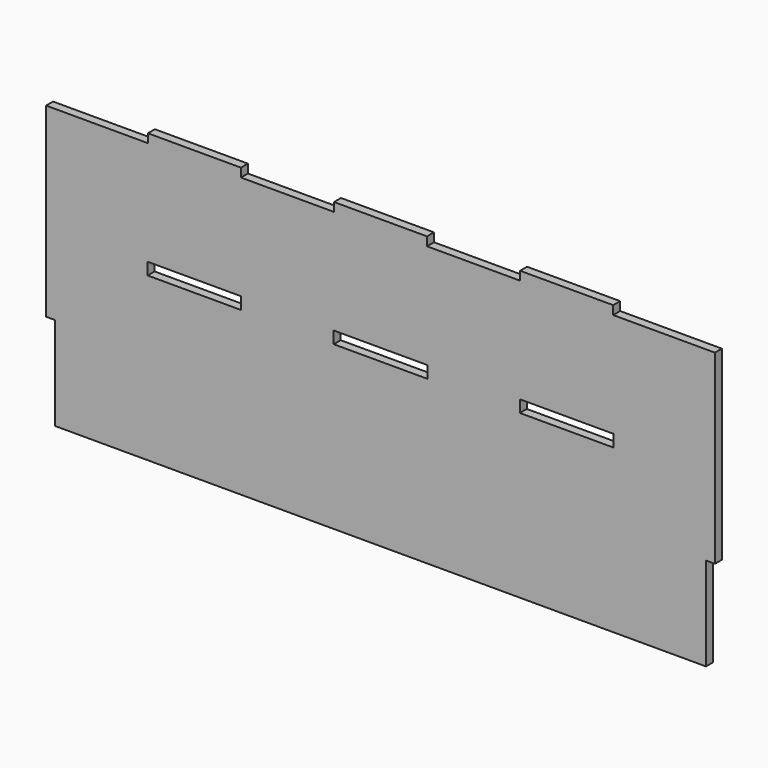
from build123d import *

# Parameters (mm, degrees)
F0_W     = 51.054
F0_H     = 6.604
F0_W_2   = 50.8
F0_H_2   = 4.7625
F1_DEPTH = 4.7625


with BuildPart() as f1:
    # F0 (on Front) → F1 (new body)
    with BuildSketch(Plane.XZ):
        Polygon((-127, 76.2), (-182.5625, 76.2), (-182.5625, -25.273), (-177.673, -25.273), (-177.673, -76.2), (177.673, -76.2), (177.673, -25.273), (182.5625, -25.273), (182.5625, 76.2), (127, 76.2), (76.2, 76.2), (25.4, 76.2), (-25.4, 76.2), (-76.2, 76.2), align=None)
        with Locations((-101.6, 15.875)):
            Rectangle(F0_W, F0_H, mode=Mode.SUBTRACT)
        with Locations((0, 15.875)):
            Rectangle(F0_W, F0_H, mode=Mode.SUBTRACT)
        with Locations((101.6, 15.875)):
            Rectangle(F0_W, F0_H, mode=Mode.SUBTRACT)
        with Locations((-101.6, 78.58125)):
            Rectangle(F0_W_2, F0_H_2)
        with Locations((0, 78.58125)):
            Rectangle(F0_W_2, F0_H_2)
        with Locations((101.6, 78.58125)):
            Rectangle(F0_W_2, F0_H_2)
    extrude(amount=F1_DEPTH)


solid = f1.part
